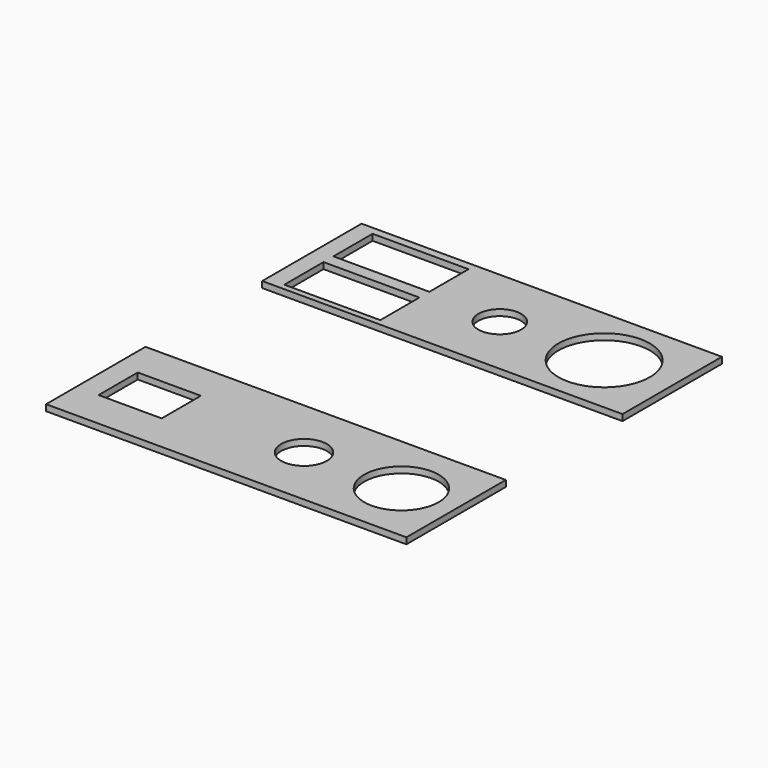
from build123d import *

# Parameters (mm, degrees)
F0_W     = 184.15
F0_H     = 63.5
F1_DEPTH = 3.175
F2_W     = 49.022
F2_H     = 25.003125
F2_R     = 23.368
F2_R_2   = 10.922
F3_DEPTH = 25.4
F4_W     = 184.15
F4_H     = 63.5
F5_DEPTH = 3.175
F6_R     = 19.05
F6_R_2   = 11.684
F6_W     = 32.258
F6_H     = 25.003125
F7_DEPTH = 3.175


with BuildPart() as f1:
    # F0 (on Top) → F1 (new body)
    with BuildSketch(Plane.XY):
        with Locations((9.289552, 5.142859)):
            Rectangle(F0_W, F0_H)
    extrude(amount=F1_DEPTH)

    # F2 (on face) → F3 (cut)
    with BuildSketch(Plane.XY.offset(3.175)):
        with Locations((-49.384448, 20.295544)):
            Rectangle(F2_W, F2_H)
        with Locations((-49.384448, -11.057581)):
            Rectangle(F2_W, F2_H)
        with Locations((66.566552, 5.142859)):
            Circle(F2_R)
        with Locations((13.226552, 5.142859)):
            Circle(F2_R_2)
    extrude(amount=-F3_DEPTH, mode=Mode.SUBTRACT)


with BuildPart() as f5:
    # F4 (on Top) → F5 (new body)
    with BuildSketch(Plane.XY):
        with Locations((8.443996, -131.863282)):
            Rectangle(F4_W, F4_H)
    extrude(amount=F5_DEPTH)

    # F6 (on face) → F7 (cut, through all)
    with BuildSketch(Plane.XY):
        with Locations((72.578996, -131.863282)):
            Circle(F6_R)
        with Locations((22.794996, -131.863282)):
            Circle(F6_R_2)
        with Locations((-56.066984, -131.863282)):
            Rectangle(F6_W, F6_H)
    extrude(amount=F7_DEPTH, mode=Mode.SUBTRACT)


solid = Compound([f1.part, f5.part])
